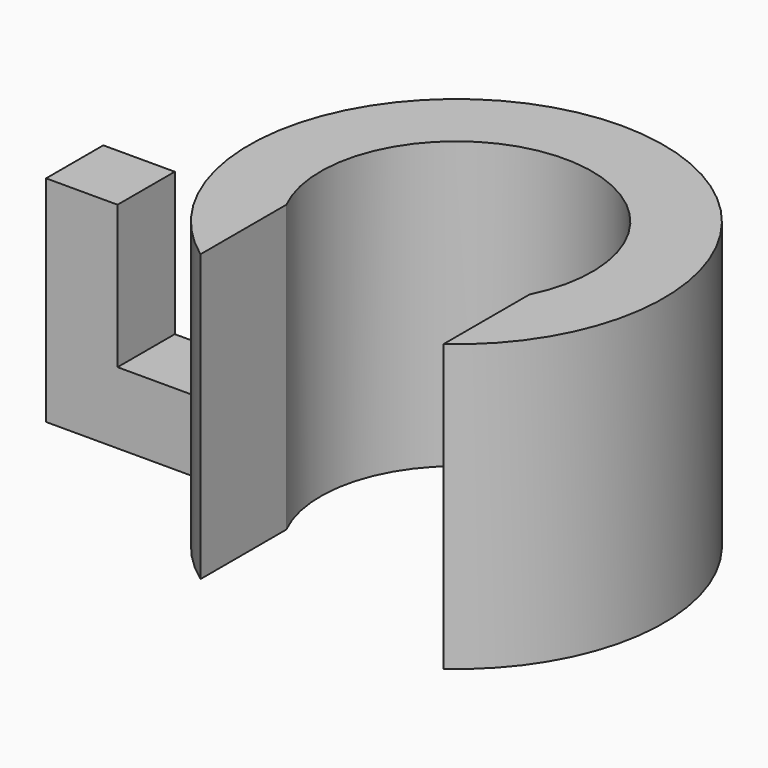
from build123d import *

# Parameters (mm, degrees)
F0_R     = 14.5
F0_R_2   = 9.5
F1_DEPTH = 20
F2_W     = 17
F2_H     = 20.348274
F3_DEPTH = 20
F5_DEPTH = 15
F6_W     = 7.194839
F6_H     = 10
F7_DEPTH = 5


with BuildPart() as f1:
    # F0 (on Top) → F1 (new body)
    with BuildSketch(Plane.XY):
        Circle(F0_R)
        Circle(F0_R_2, mode=Mode.SUBTRACT)
    extrude(amount=F1_DEPTH)

    # F2 (on Top) → F3 (cut)
    with BuildSketch(Plane.XY):
        with Locations((0, -10.174137)):
            Rectangle(F2_W, F2_H)
    extrude(amount=F3_DEPTH, mode=Mode.SUBTRACT)

    # F4 (on face) → F5 (join)
    with BuildSketch(Plane(origin=(0, 0, 0), x_dir=(1, 0, 0), z_dir=(0, 0, -1))):
        with BuildLine():
            ThreePointArc((-14.282857, -2.5), (-14.5, 0), (-14.282857, 2.5))
            Line((-14.282857, 2.5), (-26.692857, 2.5))
            Line((-26.692857, 2.5), (-26.692857, -2.5))
            Line((-26.692857, -2.5), (-14.282857, -2.5))
        make_face()
    extrude(amount=-F5_DEPTH)

    # F6 (on face) → F7 (cut)
    with BuildSketch(Plane.XZ.offset(2.5)):
        with Locations((-18.09742, 10)):
            Rectangle(F6_W, F6_H)
    extrude(amount=-F7_DEPTH, mode=Mode.SUBTRACT)


solid = f1.part
